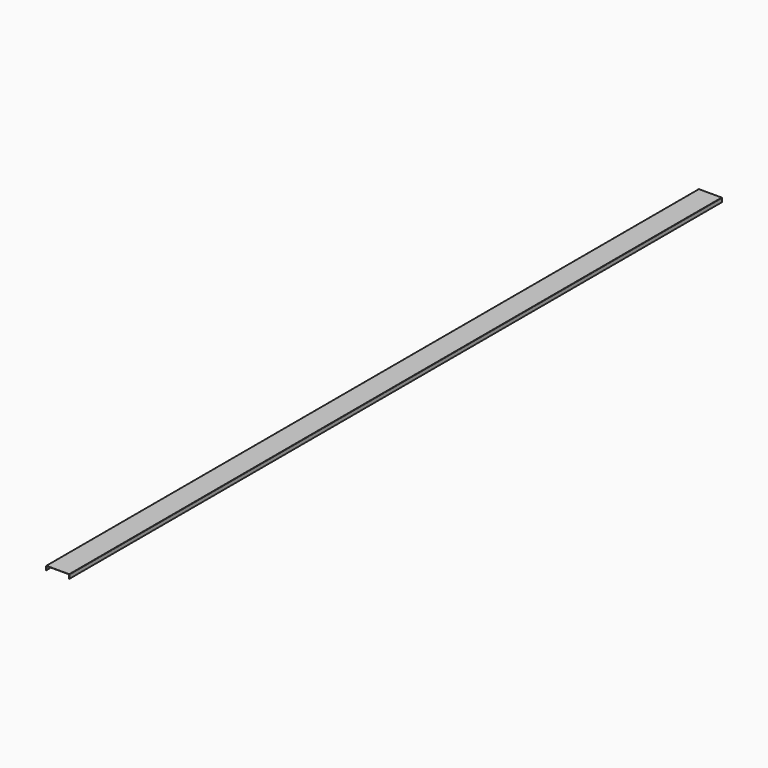
from build123d import *

# Parameters (mm, degrees)
F1_DEPTH = 8001


with BuildPart() as f1:
    # F0 (on Front) → F1 (new body)
    with BuildSketch(Plane.XZ):
        with BuildLine():
            Line((110.49, 0), (0, 0))
            Line((0, 0), (-110.49, 0))
            ThreePointArc((-110.49, 0), (-113.184077, -1.115923), (-114.3, -3.81))
            Line((-114.3, -3.81), (-114.3, -39.751))
            Line((-114.3, -39.751), (-112.395, -39.751))
            Line((-112.395, -39.751), (-112.395, -3.81))
            ThreePointArc((-112.395, -3.81), (-111.837038, -2.462962), (-110.49, -1.905))
            Line((-110.49, -1.905), (0, -1.905))
            Line((0, -1.905), (110.49, -1.905))
            ThreePointArc((110.49, -1.905), (111.837038, -2.462962), (112.395, -3.81))
            Line((112.395, -3.81), (112.395, -39.751))
            Line((112.395, -39.751), (114.3, -39.751))
            Line((114.3, -39.751), (114.3, -3.81))
            ThreePointArc((114.3, -3.81), (113.184077, -1.115923), (110.49, 0))
        make_face()
    extrude(amount=F1_DEPTH)


solid = f1.part
